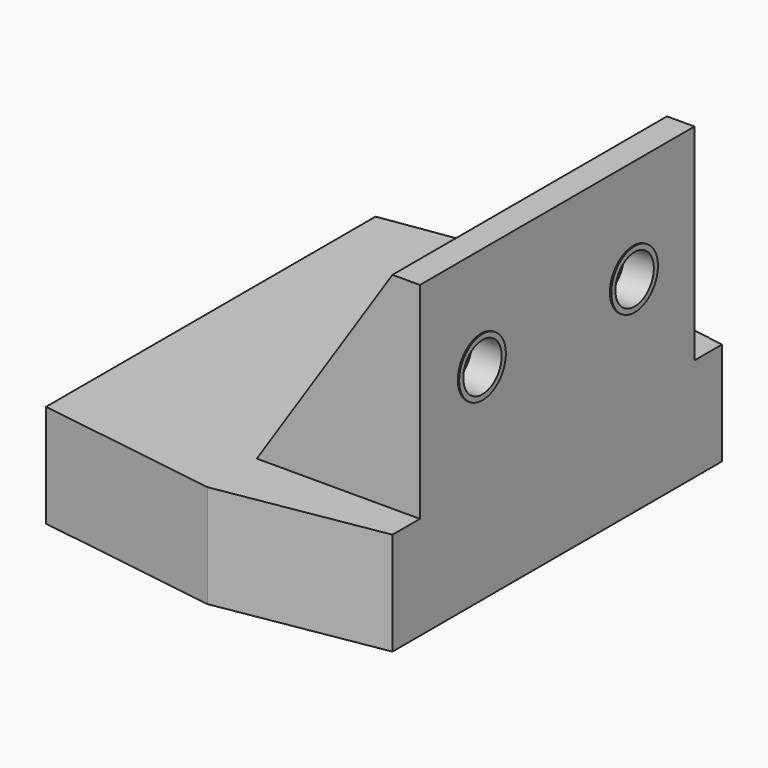
from build123d import *

# Parameters (mm, degrees)
SKETCH030_W             = 25
SKETCH030_H             = 15
PAD007_DEPTH            = 2
PAD008_DEPTH            = 7.5
SKETCH032_R             = 1.5
POCKET007_DEPTH         = 7.25
SKETCH031_R             = 1.75
POCKET008_DEPTH         = 5
PAD009_DEPTH            = 2
CHAMFER005_SIZE         = 1
SKETCH035_R             = 2.125
SKETCH035_R_2           = 1.75
PAD010_DEPTH            = 1.1
BODY003_PLACEMENT_ANGLE = 180


with BuildPart() as part:
    # Sketch030 → Pad007 (new body)
    with BuildSketch(Plane.YZ):
        Rectangle(SKETCH030_W, SKETCH030_H)
    extrude(amount=PAD007_DEPTH)

    # Sketch033 (on Face4 of Pad007) → Pad008 (join)
    with BuildSketch(Plane(origin=(0, 0, 7.5), x_dir=(0, -1, 0), z_dir=(0, 0, 1))):
        Polygon((-15, -23.23103), (15, -23.23103), (17, -9.88), (15, 2), (-15, 2), (-17, -9.88), align=None)
    extrude(amount=PAD008_DEPTH)

    # Sketch032 (on Face13 of Pad008) → Pocket007 (cut)
    with BuildSketch(Plane(origin=(0, 0, 15), x_dir=(0, -1, 0), z_dir=(0, 0, 1))):
        with Locations((11.75, -2.18)):
            Circle(SKETCH032_R)
        with Locations((-11.75, -2.18)):
            Circle(SKETCH032_R)
    extrude(amount=-POCKET007_DEPTH, mode=Mode.SUBTRACT)

    # Sketch031 (on Face4 of Pad008) → Pocket008 (cut)
    with BuildSketch(Plane(origin=(0, 0, 0), x_dir=(0, 1, 0), z_dir=(-1, 0, 0))):
        with Locations((-6.925, 0)):
            Circle(SKETCH031_R)
        with Locations((6.925, 0)):
            Circle(SKETCH031_R)
    extrude(amount=-POCKET008_DEPTH, mode=Mode.SUBTRACT)

    # Sketch034 (on Face1 of Pocket008) → Pad009 (join)
    with BuildSketch(Plane(origin=(0, -12.5, 0), x_dir=(0, 0, -1), z_dir=(0, -1, 0))):
        Polygon((-7.5, -9.88), (7.5, 0), (-7.5, 0), align=None)
    pad009 = extrude(amount=-PAD009_DEPTH)

    # Mirrored001: Pad009 across XZ
    add(pad009.mirror(Plane.XZ))

    # Chamfer005
    chamfer005_edges = [part.edges().sort_by_distance(p)[0] for p in [
        (-2.18, 13.25, 15),
        (-2.18, -10.25, 15),
    ]]
    chamfer(chamfer005_edges, length=CHAMFER005_SIZE)

    # Sketch035 (on Face19 of Chamfer005) → Pad010 (join, symmetric)
    with BuildSketch(Plane(origin=(1, 0, 0), x_dir=(0, 1, 0), z_dir=(-1, 0, 0))):
        with Locations((-6.925, 0)):
            Circle(SKETCH035_R)
        with Locations((-6.925, 0)):
            Circle(SKETCH035_R_2, mode=Mode.SUBTRACT)
        with Locations((6.925, 0)):
            Circle(SKETCH035_R)
        with Locations((6.925, 0)):
            Circle(SKETCH035_R_2, mode=Mode.SUBTRACT)
    extrude(amount=PAD010_DEPTH, both=True)


with BuildPart() as part_1:
    # Body003 placement: moved
    add(part.part.rotate(Axis((0, 0, 0), (1, 0, 0)), BODY003_PLACEMENT_ANGLE))


solid = part_1.part
